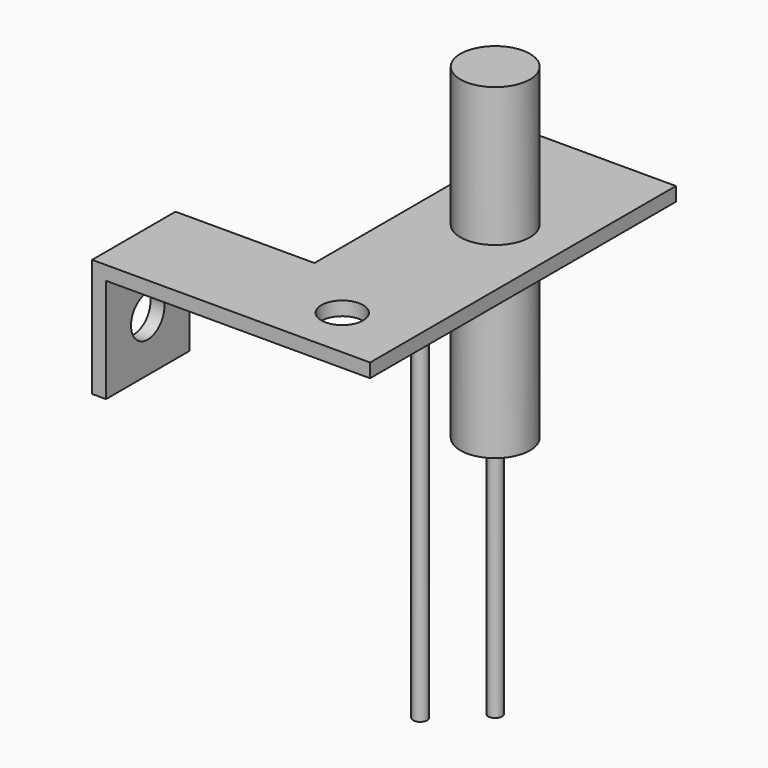
from build123d import *

# Parameters (mm, degrees)
PAD_DEPTH       = 2
SKETCH001_R     = 5
PAD001_DEPTH    = 20
SKETCH002_W     = 2
SKETCH002_H     = 15
PAD002_DEPTH    = 15
SKETCH003_R     = 5
SKETCH003_R_2   = 1
PAD003_DEPTH    = 25
SKETCH004_R     = 1
PAD004_DEPTH    = 35
SKETCH005_R     = 3
POCKET_DEPTH    = 2
SKETCH006_R     = 3
POCKET001_DEPTH = 2


with BuildPart() as part:
    # Sketch → Pad (new body)
    with BuildSketch(Plane.XY):
        Polygon((0, 0), (40, 0), (40, 55), (20, 55), (20, 15), (0, 15), align=None)
    extrude(amount=PAD_DEPTH)

    # Sketch001 (on Face8 of Pad) → Pad001 (join)
    with BuildSketch(Plane.XY.offset(2)):
        with Locations((30, 35)):
            Circle(SKETCH001_R)
    extrude(amount=PAD001_DEPTH)

    # Sketch002 (on Face4 of Pad001) → Pad002 (join)
    with BuildSketch(Plane(origin=(0, 0, 0), x_dir=(1, 0, 0), z_dir=(0, 0, -1))):
        with Locations((1, -7.5)):
            Rectangle(SKETCH002_W, SKETCH002_H)
    extrude(amount=PAD002_DEPTH)

    # Sketch003 (on Face10 of Pad002) → Pad003 (join)
    with BuildSketch(Plane(origin=(0, 0, 0), x_dir=(1, 0, 0), z_dir=(0, 0, -1))):
        with Locations((30, -35)):
            Circle(SKETCH003_R)
        with Locations((24, -29)):
            Circle(SKETCH003_R_2)
    extrude(amount=PAD003_DEPTH)

    # Sketch004 (on Face19 of Pad003) → Pad004 (join)
    with BuildSketch(Plane(origin=(0, 0, -25), x_dir=(1, 0, 0), z_dir=(0, 0, -1))):
        with Locations((24, -29)):
            Circle(SKETCH004_R)
        with Locations((30, -35)):
            Circle(SKETCH004_R)
    extrude(amount=PAD004_DEPTH)

    # Sketch005 (on Face1 of Pad004) → Pocket (cut)
    with BuildSketch(Plane.XY.offset(2)):
        with Locations((30, 7.5)):
            Circle(SKETCH005_R)
    extrude(amount=-POCKET_DEPTH, mode=Mode.SUBTRACT)

    # Sketch006 (on Face16 of Pocket) → Pocket001 (cut)
    with BuildSketch(Plane.YZ.offset(2)):
        with Locations((7.5, -7.5)):
            Circle(SKETCH006_R)
    extrude(amount=-POCKET001_DEPTH, mode=Mode.SUBTRACT)


solid = part.part
